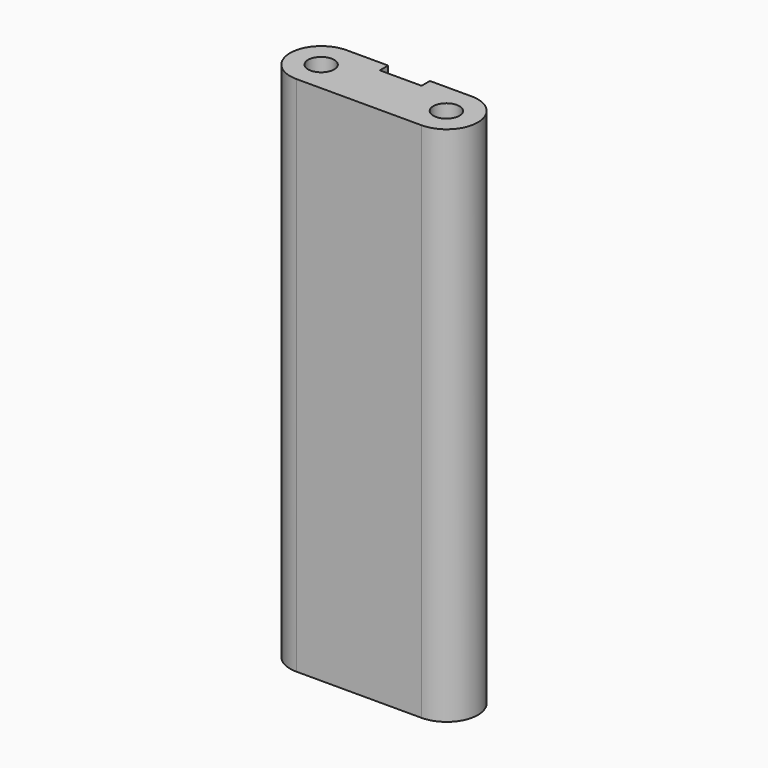
from build123d import *

# Parameters (mm, degrees)
F0_R     = 0.625
F1_DEPTH = 25


with BuildPart() as f1:
    # F0 (on Top) → F1 (new body)
    with BuildSketch(Plane.XY):
        with BuildLine():
            ThreePointArc((-5.82258, -21.932798), (-7.32258, -23.432798), (-5.82258, -24.932798))
            Line((-5.82258, -24.932798), (0.17742, -24.932798))
            ThreePointArc((0.17742, -24.932798), (1.67742, -23.432798), (0.17742, -21.932798))
            Line((0.17742, -21.932798), (-1.82258, -21.932798))
            Line((-1.82258, -21.932798), (-1.82258, -22.432798))
            Line((-1.82258, -22.432798), (-3.82258, -22.432798))
            Line((-3.82258, -22.432798), (-3.82258, -21.932798))
            Line((-3.82258, -21.932798), (-5.82258, -21.932798))
        make_face()
        with Locations((-5.826966, -23.441111)):
            Circle(F0_R, mode=Mode.SUBTRACT)
        with Locations((0.17742, -23.445885)):
            Circle(F0_R, mode=Mode.SUBTRACT)
    extrude(amount=F1_DEPTH)


solid = f1.part
